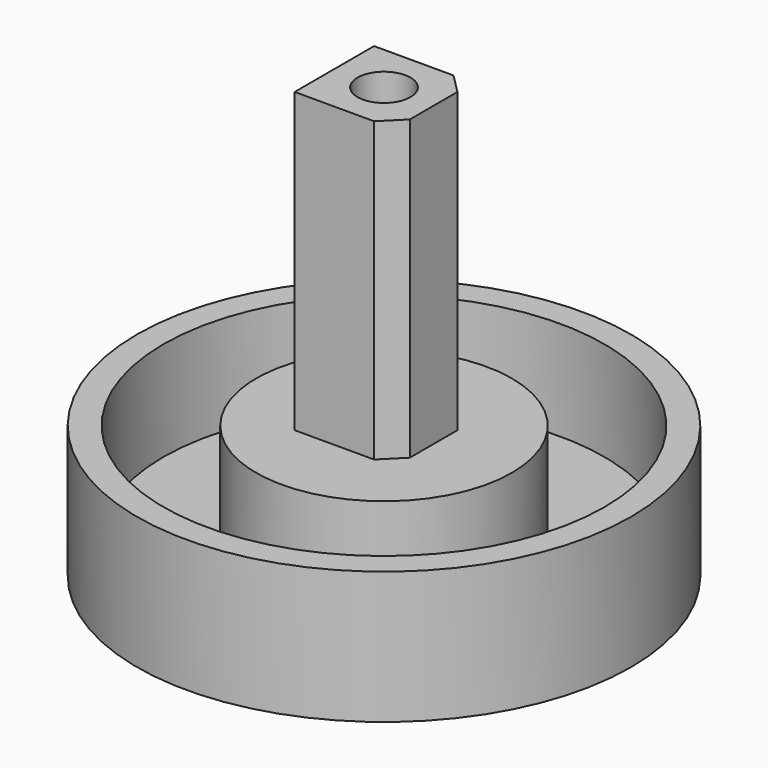
from build123d import *

# Parameters (mm, degrees)
F0_R     = 37.325
F1_DEPTH = 20
F2_R     = 33.325
F2_R_2   = 19.325
F3_DEPTH = 15
F4_W     = 15
F4_H     = 15
F5_DEPTH = 45
F6_SIZE2 = 3
F6_SIZE  = 3
F7_R     = 4
F8_DEPTH = 10


with BuildPart() as f1:
    # F0 (on Top) → F1 (new body)
    with BuildSketch(Plane.XY):
        Circle(F0_R)
    extrude(amount=F1_DEPTH)

    # F2 (on face) → F3 (cut)
    with BuildSketch(Plane.XY.offset(20)):
        Circle(F2_R)
        Circle(F2_R_2, mode=Mode.SUBTRACT)
    extrude(amount=-F3_DEPTH, mode=Mode.SUBTRACT)

    # F4 (on face) → F5 (join)
    with BuildSketch(Plane.XY.offset(20)):
        Rectangle(F4_W, F4_H)
    extrude(amount=F5_DEPTH)

    # F6
    f6_edges = [f1.edges().sort_by_distance(p)[0] for p in [
        (7.5, 7.5, 42.5),
        (7.5, -7.5, 42.5),
    ]]
    chamfer(f6_edges, length=F6_SIZE, length2=F6_SIZE2)

    # F7 (on face) → F8 (cut)
    with BuildSketch(Plane.XY.offset(65)):
        Circle(F7_R)
    extrude(amount=-F8_DEPTH, mode=Mode.SUBTRACT)


solid = f1.part
